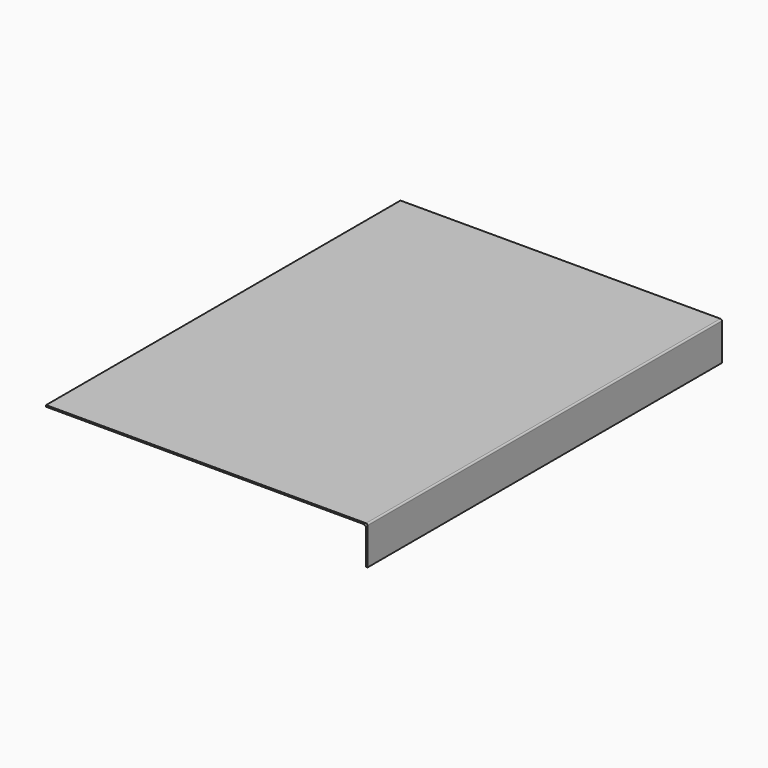
from build123d import *

# Parameters (mm, degrees)
F1_DEPTH = 228.6


with BuildPart() as f1:
    # F0 (on Front) → F1 (new body, symmetric)
    with BuildSketch(Plane.XZ):
        with BuildLine():
            ThreePointArc((-1.5875, 0), (-1.122532, 1.122532), (0, 1.5875))
            Line((0, 1.5875), (-330.2, 1.5875))
            Line((-330.2, 1.5875), (-330.2, 0))
            Line((-330.2, 0), (-1.5875, 0))
        make_face()
        with BuildLine():
            Line((1.5875, -38.1), (1.5875, 0))
            ThreePointArc((1.5875, 0), (1.122532, -1.122532), (0, -1.5875))
            Line((0, -1.5875), (0, -38.1))
            Line((0, -38.1), (1.5875, -38.1))
        make_face()
        with BuildLine():
            ThreePointArc((0, -1.5875), (1.122532, -1.122532), (1.5875, 0))
            ThreePointArc((1.5875, 0), (1.122532, 1.122532), (0, 1.5875))
            ThreePointArc((0, 1.5875), (-1.122532, 1.122532), (-1.5875, 0))
            ThreePointArc((-1.5875, 0), (-1.122532, -1.122532), (0, -1.5875))
        make_face()
    extrude(amount=F1_DEPTH, both=True)


solid = f1.part
